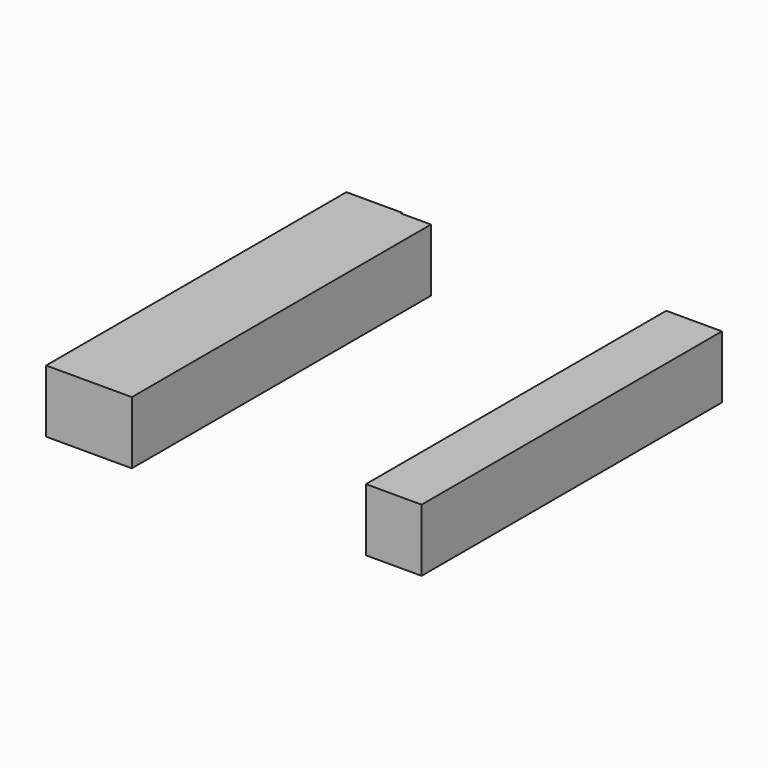
from build123d import *

# Parameters (mm, degrees)
F0_W     = 22.5552022457
F0_H     = 152.0951986313
F1_DEPTH = 25.4
F3_W     = 12.8016024828
F3_H     = 151.4855995774
F4_DEPTH = 25.4


with BuildPart() as f1:
    # F0 (on Top) → F1 (new body)
    with BuildSketch(Plane.XY):
        with Locations((-65.2272030711, 0)):
            Rectangle(F0_W, F0_H)
    extrude(amount=F1_DEPTH)


with BuildPart() as f2_1:
    # F2: copy of F1
    add(f1.part.moved(Location((129.794, -0.254, 0))))


with BuildPart() as f1_1:
    add(f1.part)

    # F3 (on Top) → F4 (join)
    with BuildSketch(Plane.XY):
        with Locations((-48.1583997607, -0.3047995269)):
            Rectangle(F3_W, F3_H)
    extrude(amount=F4_DEPTH)


solid = Compound([f2_1.part, f1_1.part])
